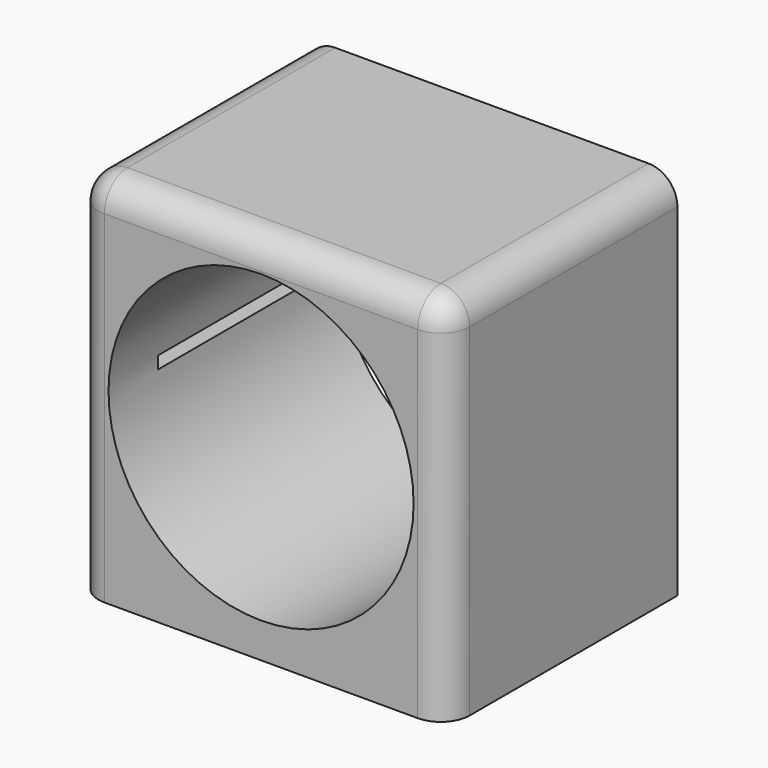
from build123d import *

# Parameters (mm, degrees)
F0_W     = 90
F0_H     = 70
F1_DEPTH = 90
F2_R     = 37
F3_DEPTH = 70
F4_R     = 5
F5_DEPTH = 9
F6_R     = 7
F8_DEPTH = 55


with BuildPart() as f1:
    # F0 (on Top) → F1 (new body)
    with BuildSketch(Plane.XY):
        Rectangle(F0_W, F0_H)
    extrude(amount=F1_DEPTH)

    # F2 (on face) → F3 (cut)
    with BuildSketch(Plane.XZ.offset(35)):
        with Locations((0, 45.5)):
            Circle(F2_R)
    extrude(amount=-F3_DEPTH, mode=Mode.SUBTRACT)

    # F4 (on face) → F5 (cut)
    with BuildSketch(Plane(origin=(0, 0, 0), x_dir=(1, 0, 0), z_dir=(0, 0, -1))):
        with Locations((-35, 25)):
            Circle(F4_R)
        with Locations((-35, -25)):
            Circle(F4_R)
        with Locations((25, 25)):
            Circle(F4_R)
        with Locations((25, -25)):
            Circle(F4_R)
    extrude(amount=-F5_DEPTH, mode=Mode.SUBTRACT)

    # F6
    f6_edges = [f1.edges().sort_by_distance(p)[0] for p in [
        (0, -35, 90),
        (45, 0, 90),
        (-45, 0, 90),
        (45, -35, 45),
        (-45, -35, 45),
    ]]
    fillet(f6_edges, radius=F6_R)

    # F7 (on face) → F8 (cut)
    with BuildSketch(Plane(origin=(0, 35, 0), x_dir=(-1, 0, 0), z_dir=(0, 1, 0))):
        with BuildLine():
            ThreePointArc((-36.9695820912, 44), (-37, 45.5), (-36.9695820912, 47))
            Line((-36.9695820912, 47), (-41.9695820912, 47))
            Line((-41.9695820912, 47), (-41.9695820912, 45.5))
            Line((-41.9695820912, 45.5), (-41.9695820912, 44))
            Line((-41.9695820912, 44), (-36.9695820912, 44))
        make_face()
        with BuildLine():
            Line((41.9695820912, 47), (36.9695820912, 47))
            ThreePointArc((36.9695820912, 47), (36.9923947412, 46.2501541923), (37, 45.5))
            ThreePointArc((37, 45.5), (36.9923947412, 44.7498458077), (36.9695820912, 44))
            Line((36.9695820912, 44), (41.9695820912, 44))
            Line((41.9695820912, 44), (41.9695820912, 45.5))
            Line((41.9695820912, 45.5), (41.9695820912, 47))
        make_face()
    extrude(amount=-F8_DEPTH, mode=Mode.SUBTRACT)


solid = f1.part
